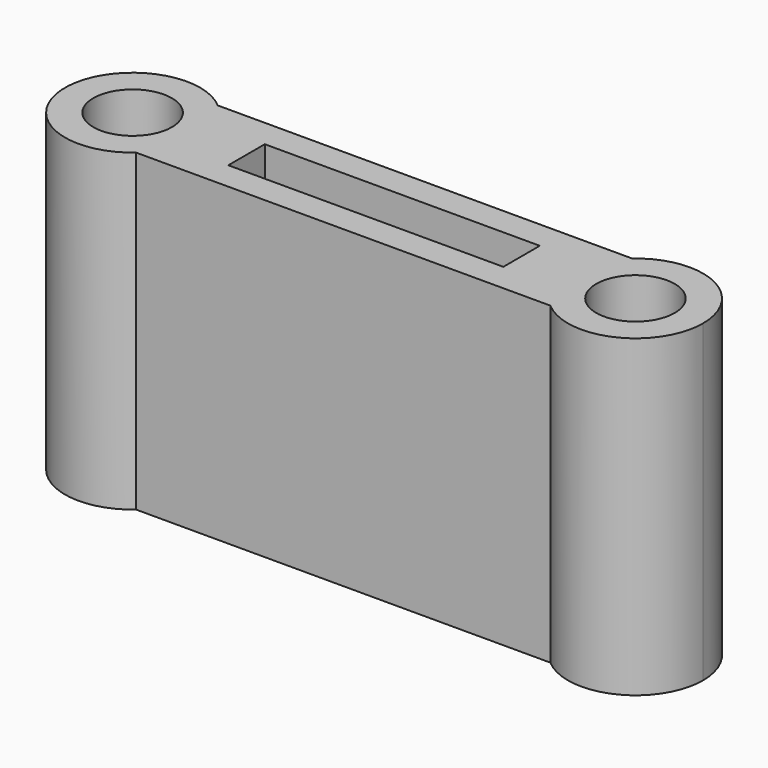
from build123d import *

# Parameters (mm, degrees)
F1_R     = 2.5
F1_W     = 17.5
F1_H     = 2.9
F2_DEPTH = 20


with BuildPart() as f2:
    # F1 (on Top) → F2 (new body)
    with BuildSketch(Plane.XY):
        with BuildLine():
            ThreePointArc((-13.1844183549, -3.25), (-12.0886702342, -1.7864768297), (-11.7, 0))
            ThreePointArc((-11.7, 0), (-12.0886702342, 1.7864768297), (-13.1844183549, 3.25))
            ThreePointArc((-13.1844183549, 3.25), (-20.3, 0), (-13.1844183549, -3.25))
        make_face()
        with Locations((-16, 0)):
            Circle(F1_R, mode=Mode.SUBTRACT)
        with BuildLine():
            ThreePointArc((-13.1844183549, 3.25), (-12.0886702342, 1.7864768297), (-11.7, 0))
            ThreePointArc((-11.7, 0), (-12.0886702342, -1.7864768297), (-13.1844183549, -3.25))
            Line((-13.1844183549, -3.25), (13.1844183549, -3.25))
            ThreePointArc((13.1844183549, -3.25), (11.7, 0), (13.1844183549, 3.25))
            Line((13.1844183549, 3.25), (-13.1844183549, 3.25))
        make_face()
        Rectangle(F1_W, F1_H, mode=Mode.SUBTRACT)
        with BuildLine():
            ThreePointArc((20.3, 0), (17.7864768297, 3.9113297658), (13.1844183549, 3.25))
            ThreePointArc((13.1844183549, 3.25), (11.7, 0), (13.1844183549, -3.25))
            ThreePointArc((13.1844183549, -3.25), (17.7864768297, -3.9113297658), (20.3, 0))
        make_face()
        with Locations((16, 0)):
            Circle(F1_R, mode=Mode.SUBTRACT)
    extrude(amount=F2_DEPTH)


solid = f2.part
